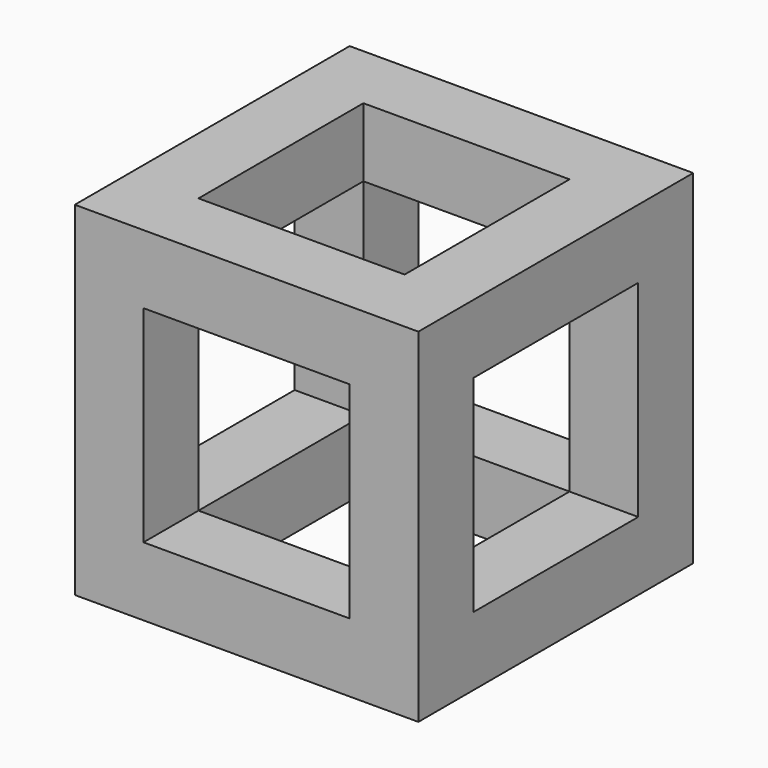
from build123d import *

# Parameters (mm, degrees)
F0_W     = 25
F0_H     = 25
F0_W_2   = 15
F0_H_2   = 15
F1_DEPTH = 25
F2_W     = 15
F2_H     = 15
F3_DEPTH = 25
F4_W     = 15
F4_H     = 15
F5_DEPTH = 25


with BuildPart() as f1:
    # F0 (on Top) → F1 (new body)
    with BuildSketch(Plane.XY):
        with Locations((8.910105, -12.434757)):
            Rectangle(F0_W, F0_H)
        with Locations((8.910105, -12.434757)):
            Rectangle(F0_W_2, F0_H_2, mode=Mode.SUBTRACT)
    extrude(amount=F1_DEPTH)

    # F2 (on face) → F3 (cut)
    with BuildSketch(Plane.YZ.offset(21.410105)):
        with Locations((-12.434757, 12.5)):
            Rectangle(F2_W, F2_H)
    extrude(amount=-F3_DEPTH, mode=Mode.SUBTRACT)

    # F4 (on face) → F5 (cut)
    with BuildSketch(Plane(origin=(0, 0.065243, 0), x_dir=(-1, 0, 0), z_dir=(0, 1, 0))):
        with Locations((-8.910105, 12.5)):
            Rectangle(F4_W, F4_H)
    extrude(amount=-F5_DEPTH, mode=Mode.SUBTRACT)


solid = f1.part
